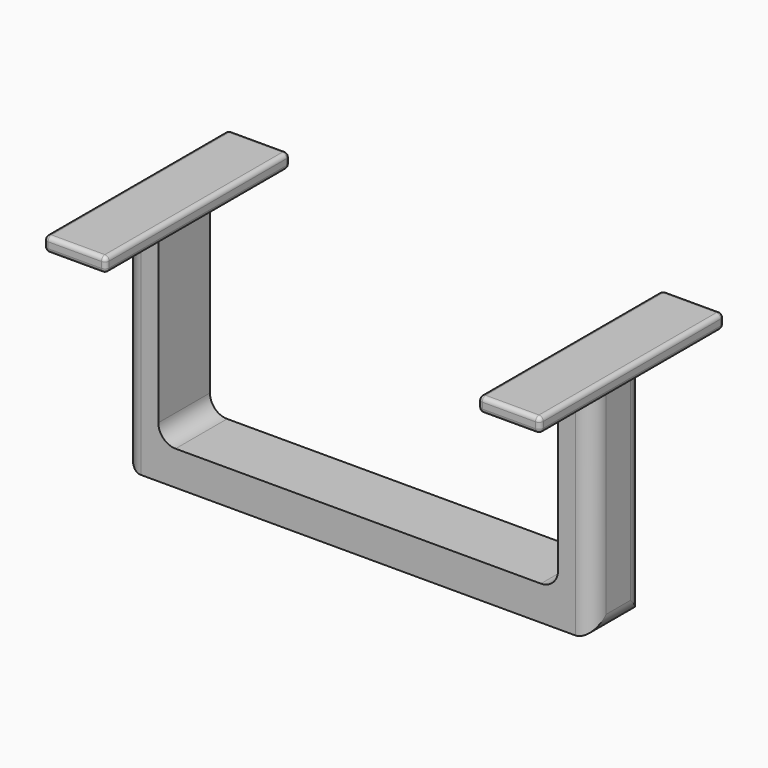
from build123d import *

# Parameters (mm, degrees)
SKETCH004_W  = 545
SKETCH004_H  = 75
PAD004_DEPTH = 40
SKETCH005_W  = 40
SKETCH005_H  = 75
PAD005_DEPTH = 216
SKETCH006_W  = 72
SKETCH006_H  = 268
PAD006_DEPTH = 17
FILLET003_R  = 5
FILLET004_R  = 20


with BuildPart() as part:
    # Sketch004 (on Face1 of CopyPad003) → Pad004 (new body)
    with BuildSketch(Plane.XY.offset(415)):
        Rectangle(SKETCH004_W, SKETCH004_H)
    extrude(amount=PAD004_DEPTH)

    # Sketch005 (on Face6 of Pad004) → Pad005 (join)
    with BuildSketch(Plane.XY.offset(455)):
        with Locations((-252.5, 0)):
            Rectangle(SKETCH005_W, SKETCH005_H)
        with Locations((252.5, 0)):
            Rectangle(SKETCH005_W, SKETCH005_H)
    extrude(amount=PAD005_DEPTH)

    # Sketch006 (on Face5 of Pad005) → Pad006 (join)
    with BuildSketch(Plane.XY.offset(671)):
        with Locations((-252.5, 0)):
            Rectangle(SKETCH006_W, SKETCH006_H)
        with Locations((252.5, 0)):
            Rectangle(SKETCH006_W, SKETCH006_H)
    extrude(amount=PAD006_DEPTH)

    # Fillet003
    fillet003_edges = [part.edges().sort_by_distance(p)[0] for p in [
        (-288.5, 0, 688),
        (-216.5, 0, 688),
        (216.5, 0, 688),
        (288.5, 0, 688),
        (252.5, -134, 688),
        (252.5, 134, 688),
        (-252.5, 134, 688),
        (-252.5, -134, 688),
        (216.5, -134, 679.5),
        (288.5, -134, 679.5),
        (288.5, 134, 679.5),
        (216.5, 134, 679.5),
        (288.5, 0, 671),
        (252.5, 134, 671),
        (252.5, -134, 671),
        (216.5, 0, 671),
        (-288.5, 0, 671),
        (-252.5, -134, 671),
        (-288.5, -134, 679.5),
        (-216.5, -134, 679.5),
        (-216.5, 134, 679.5),
        (-216.5, 0, 671),
        (-252.5, 134, 671),
        (-288.5, 134, 679.5),
    ]]
    fillet(fillet003_edges, radius=FILLET003_R)

    # Fillet004
    fillet004_edges = [part.edges().sort_by_distance(p)[0] for p in [
        (-272.5, 0, 415),
        (-232.5, 0, 455),
        (232.5, 0, 455),
        (272.5, 0, 415),
        (272.5, -37.5, 543),
        (272.5, 37.5, 543),
        (-272.5, -37.5, 543),
        (-272.5, 37.5, 543),
    ]]
    fillet(fillet004_edges, radius=FILLET004_R)


solid = part.part
